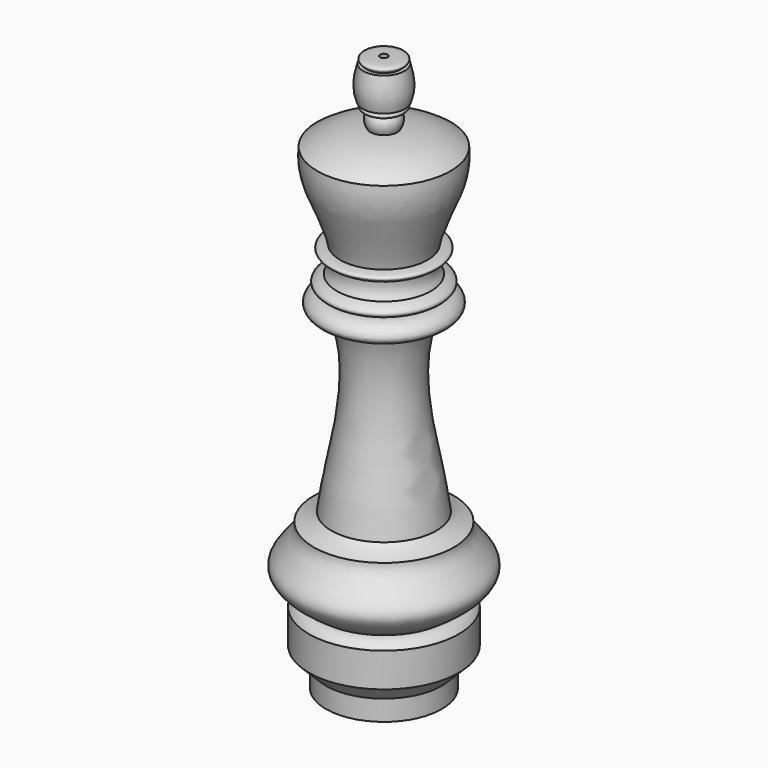
from build123d import *

# Parameters (mm, degrees)
F2_SIZE  = 2.5
F3_DEPTH = 3


with BuildPart() as f1:
    # F0 (on Front) → F1 (revolve)
    with BuildSketch(Plane.XZ):
        with BuildLine():
            Line((-11, 0), (0, 0))
            Line((0, 0), (0, 40))
            add(Edge.make_bspline(
                [(-0.5515602777, 78.6350275348), (-1.3020803139, 77.9584492038), (-0.9389197846, 39.9656068795), (0, 40)],
                knots=[0.689180536, 0.689180536, 0.689180536, 0.689180536, 38.6378756782, 38.6378756782, 38.6378756782, 38.6378756782], degree=3))
            add(Edge.make_bspline(
                [(-2.4395277724, 77.6736549017), (-3.9611321005, 78.7568744747), (-1.6515994202, 78.6495189395), (-0.5515602777, 78.6350275348)],
                knots=[0, 0, 0, 0, 2.1284418308, 2.1284418308, 2.1284418308, 2.1284418308], degree=3))
            add(Edge.make_bspline(
                [(-3.0390430475, 77.6736549017), (-2.8392027986, 77.6736549017), (-2.6393680212, 77.6736549017), (-2.4395277724, 77.6736549017)],
                knots=[0, 0, 0, 0, 0.5995152751, 0.5995152751, 0.5995152751, 0.5995152751], degree=3))
            add(Edge.make_bspline(
                [(-3.1259575033, 72.8096271857), (-3.8109431043, 74.538230896), (-3.4850256052, 76.11566782), (-3.0390430475, 77.6736549017)],
                knots=[0, 0, 0, 0, 4.8648041836, 4.8648041836, 4.8648041836, 4.8648041836], degree=3))
            add(Edge.make_bspline(
                [(-2.5948623661, 72.766341269), (-2.7708760463, 72.7635845542), (-2.9461996735, 72.7888847693), (-3.1259575033, 72.8096271857)],
                knots=[0, 0, 0, 0, 0.5328561863, 0.5328561863, 0.5328561863, 0.5328561863], degree=3))
            add(Edge.make_bspline(
                [(-1.6316021793, 71.9157457352), (-2.8025940992, 71.7415586114), (-3.3294912428, 72.1560716629), (-2.5948623661, 72.766341269)],
                knots=[0, 0, 0, 0, 1.2850614576, 1.2850614576, 1.2850614576, 1.2850614576], degree=3))
            add(Edge.make_bspline(
                [(-1.9634624477, 69.4083571434), (-2.4806587026, 70.2362880111), (-2.4632569402, 71.2281987071), (-1.6316021793, 71.9157457352)],
                knots=[0, 0, 0, 0, 2.5292545914, 2.5292545914, 2.5292545914, 2.5292545914], degree=3))
            add(Edge.make_bspline(
                [(-9.7806155682, 66.937841475), (-7.3481798172, 68.7082782388), (-4.5918575488, 69.298915565), (-1.9634624477, 69.4083571434)],
                knots=[0, 0, 0, 0, 8.198251678, 8.198251678, 8.198251678, 8.198251678], degree=3))
            add(Edge.make_bspline(
                [(-6.4251390286, 54.3640255928), (-7.1266898885, 58.6427748203), (-10.2767720819, 61.9405210018), (-9.7806155682, 66.937841475)],
                knots=[0, 0, 0, 0, 13.0138414255, 13.0138414255, 13.0138414255, 13.0138414255], degree=3))
            add(Edge.make_bspline(
                [(-6.4251390286, 52.8153441846), (-8.9406110346, 53.9146363735), (-7.6758693904, 54.3088428676), (-6.4251390286, 54.3640255928)],
                knots=[0, 0, 0, 0, 1.5486814082, 1.5486814082, 1.5486814082, 1.5486814082], degree=3))
            add(Edge.make_bspline(
                [(-6.9044926204, 50.492323935), (-6.3372142613, 51.2866005301), (-6.3454271294, 52.1078631282), (-6.4251390286, 52.8153441846)],
                knots=[0, 0, 0, 0, 2.3719618349, 2.3719618349, 2.3719618349, 2.3719618349], degree=3))
            add(Edge.make_bspline(
                [(-6.4251390286, 48.4642870724), (-7.9961614683, 48.7817563117), (-9.5811942592, 49.6194437146), (-6.9044926204, 50.492323935)],
                knots=[0, 0, 0, 0, 2.0839177964, 2.0839177964, 2.0839177964, 2.0839177964], degree=3))
            add(Edge.make_bspline(
                [(-6.4251390286, 45.5144196749), (-11.3554932177, 45.6295013428), (-8.9263804257, 48.8780736923), (-6.4251390286, 48.4642870724)],
                knots=[0, 0, 0, 0, 2.9498673975, 2.9498673975, 2.9498673975, 2.9498673975], degree=3))
            add(Edge.make_bspline(
                [(-7.6971910894, 19.7872631252), (-6.61433395, 28.6549832672), (-3.1901642215, 36.9959101081), (-6.4251390286, 45.5144196749)],
                knots=[0, 0, 0, 0, 25.7585849879, 25.7585849879, 25.7585849879, 25.7585849879], degree=3))
            add(Edge.make_bspline(
                [(-10.272635147, 18.4702742845), (-9.7770881839, 18.586418281), (-8.0483881757, 19.2312020808), (-7.6971910894, 19.7872631252)],
                knots=[0, 0, 0, 0, 2.892640956, 2.892640956, 2.892640956, 2.892640956], degree=3))
            add(Edge.make_bspline(
                [(-9.2290937901, 8.5778627545), (-10.961288593, 9.7471593135), (-14.6973708811, 12.30919912), (-11.4884684984, 15.7179914185), (-10.20752364, 17.4810142196), (-10.272635147, 18.4702742845)],
                knots=[0, 0, 0, 0, 0.3955323553, 0.7097379741, 1, 1, 1, 1], degree=3))
            add(Edge.make_bspline(
                [(-11, 7.5), (-10.5753485113, 8.2559324801), (-9.8408616036, 8.5778627545), (-9.2290937901, 8.5778627545)],
                knots=[0, 0, 0, 0, 2.0731369762, 2.0731369762, 2.0731369762, 2.0731369762], degree=3))
            Line((-11, 7.5), (-11, 0))
        make_face()
    revolve(axis=Axis((0, 0, 20), (0, 0, -1)))

    # F2
    f2_edges = [f1.edges().sort_by_distance(p)[0] for p in [
        (11, 0, 0),
    ]]
    chamfer(f2_edges, length=F2_SIZE)

    # F3 (add): a face of the model
    f3_faces = [f1.faces().sort_by_distance(p)[0] for p in [
        (0, 0, 0),
    ]]
    extrude(f3_faces, amount=F3_DEPTH)


solid = f1.part
